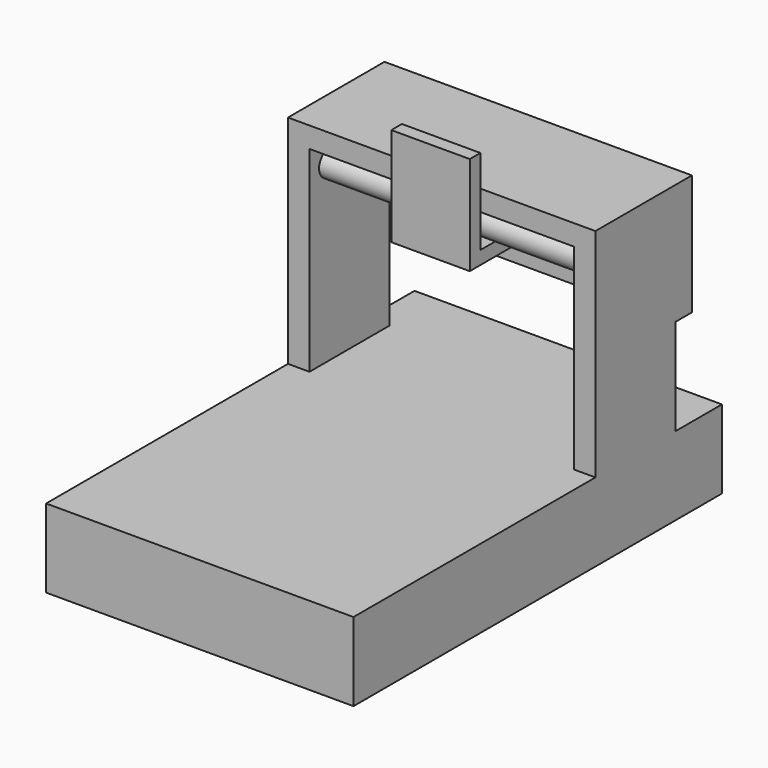
from build123d import *

# Parameters (mm, degrees)
F0_W     = 2.7405302972
F0_H     = 12.7354152501
F1_DEPTH = 10
F2_DEPTH = 35
F3_R     = 1.6440039884
F4_DEPTH = 33.6924307048
F6_DEPTH = 39.1734912992
F8_DEPTH = 5


with BuildPart() as f1:
    # F0 (on Top) → F1 (new body)
    with BuildSketch(Plane.XY):
        Polygon((19.5867456496, 29.3398164213), (-19.5867456496, 29.3398164213), (-19.5867456496, 21.9242591411), (-16.8462153524, 21.9242591411), (-16.8462153524, 9.188843891), (-19.5867456496, 9.188843891), (-19.5867456496, -29.3398164213), (19.5867456496, -29.3398164213), (19.5867456496, 9.188843891), (16.8462153524, 9.188843891), (16.8462153524, 21.9242591411), (19.5867456496, 21.9242591411), align=None)
        with Locations((-18.216480501, 15.5565515161)):
            Rectangle(F0_W, F0_H)
        with Locations((18.216480501, 15.5565515161)):
            Rectangle(F0_W, F0_H)
    extrude(amount=F1_DEPTH)

    # F0 (on Top) → F2 (join)
    with BuildSketch(Plane.XY):
        with Locations((-18.216480501, 15.5565515161)):
            Rectangle(F0_W, F0_H)
        with Locations((18.216480501, 15.5565515161)):
            Rectangle(F0_W, F0_H)
    extrude(amount=F2_DEPTH)

    # F3 (on face) → F4 (join, through all)
    with BuildSketch(Plane.YZ.offset(-16.8462153524)):
        with Locations((12.3588815841, 32.1788525892)):
            Circle(F3_R)
        with Locations((18.754221448, 32.1788525892)):
            Circle(F3_R)
    extrude(amount=F4_DEPTH)

    # F5 (on face) → F6 (join, through all)
    with BuildSketch(Plane.YZ.offset(19.5867456496)):
        Polygon((9.188843891, 37.6330949366), (9.188843891, 35), (21.9242591411, 35), (21.9242591411, 22.2645847499), (24.5573540777, 22.2645847499), (24.5573540777, 37.6330949366), align=None)
    extrude(amount=-F6_DEPTH)

    # F7 (on Right) → F8 (join, symmetric)
    with BuildSketch(Plane.YZ):
        Polygon((19.9882956222, 29.1119106114), (19.9882956222, 30.7994605973), (9.100439027, 30.7994605973), (9.100439027, 41.6873171926), (7.412889041, 41.6873171926), (7.412889041, 29.1119106114), align=None)
    extrude(amount=F8_DEPTH, both=True)


solid = f1.part
